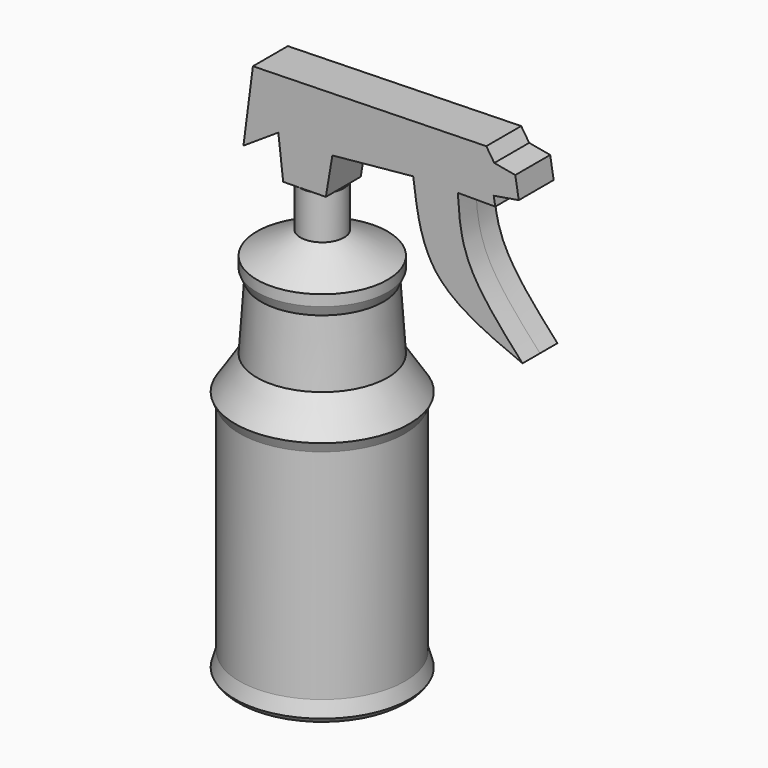
from build123d import *

# Parameters (mm, degrees)
F4_DEPTH      = 12.7
F4_DEPTH_BACK = 12.7


with BuildPart() as f2:
    # F1 (on Front) → F2 (revolve)
    with BuildSketch(Plane.XZ):
        with BuildLine():
            Line((0, 0), (44.45, 0))
            ThreePointArc((44.45, 0), (48.1964991654, 1.2722394193), (50.8, 4.2516072281))
            Line((50.8, 4.2516072281), (48.26, 12.7))
            Line((48.26, 12.7), (48.26, 139.7))
            Line((48.26, 139.7), (50.8, 145.5198711326))
            Line((50.8, 145.5198711326), (38.1, 165.1))
            Line((38.1, 165.1), (35.56, 203.1152390496))
            Line((35.56, 203.1152390496), (38.1, 208.9351101822))
            Line((38.1, 208.9351101822), (38.1, 215.2851101822))
            Line((38.1, 215.2851101822), (12.7, 228.6606810642))
            Line((12.7, 228.6606810642), (12.7, 254))
            Line((12.7, 254), (0, 254))
            Line((0, 254), (0, 0))
        make_face()
    revolve(axis=Axis((0, 0, 198.2876250841), (0, 0, 1)))


with BuildPart() as f4:
    # F3 (on Front) → F4 (new body, two sides)
    with BuildSketch(Plane.XZ) as f4_sk:
        with BuildLine():
            Line((-15.4238063842, 278.5318791866), (-12.6088354737, 254.1762888432))
            Line((-12.6088354737, 254.1762888432), (12.2480988503, 254.5439600945))
            Line((12.2480988503, 254.5439600945), (16.0559825599, 277.0451009274))
            Line((16.0559825599, 277.0451009274), (63.1352812052, 281.6295873474))
            add(Edge.make_bspline(
                [(126.8308013678, 206.4261436462), (107.1919228997, 214.5590071824), (69.7907382903, 230.0476070541), (65.2782976214, 265.0205056364), (63.1352812052, 281.6295873474)],
                knots=[0, 0, 0, 0, 0.5250870707, 1, 1, 1, 1], degree=3))
            add(Edge.make_bspline(
                [(89.1234651208, 281.6295873474), (89.8446274338, 270.4508987857), (91.4561091473, 245.4714290128), (114.2419610339, 220.3212430073), (126.8308013678, 206.4261436462)],
                knots=[0, 0, 0, 0, 0.4475150459, 1, 1, 1, 1], degree=3))
            Line((89.1234651208, 281.6295873474), (110.9398015448, 281.6295873474))
            Line((110.9398015448, 281.6295873474), (110.0507865886, 286.9636770841))
            Line((110.0507865886, 286.9636770841), (124.6369630098, 289.3947064877))
            Line((124.6369630098, 289.3947064877), (122.5993037224, 301.6206622124))
            Line((122.5993037224, 301.6206622124), (110.3742094831, 303.8412736329))
            Line((110.3742094831, 303.8412736329), (105.7158410549, 310.9356760979))
            Line((105.7158410549, 310.9356760979), (-30.2251577377, 307.7336549759))
            Line((-30.2251577377, 307.7336549759), (-35.7405543327, 265.1913762093))
            Line((-35.7405543327, 265.1913762093), (-15.4238063842, 278.5318791866))
        make_face()
    extrude(amount=F4_DEPTH)
    extrude(f4_sk.sketch, amount=-F4_DEPTH_BACK)


solid = Compound([f2.part, f4.part])
